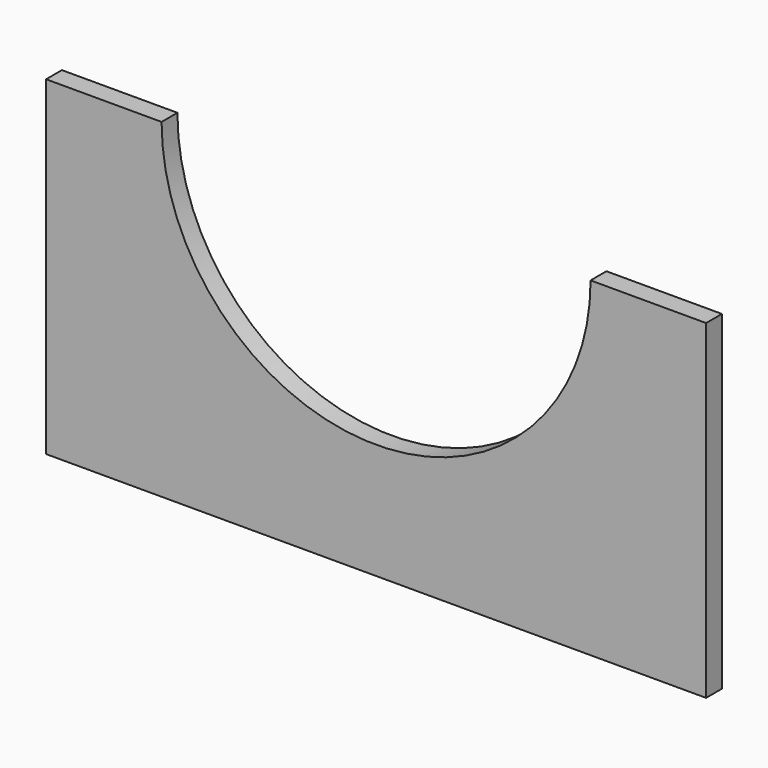
from build123d import *

# Parameters (mm, degrees)
PAD_DEPTH = 6


with BuildPart() as part:
    # Sketch → Pad (new body)
    with BuildSketch(Plane.XZ):
        with BuildLine():
            Line((0, 0), (200, 0))
            Line((200, 0), (200, 100))
            Line((200, 100), (165, 100))
            ThreePointArc((35, 100), (100, 35), (165, 100))
            Line((35, 100), (0, 100))
            Line((0, 100), (0, 0))
        make_face()
    extrude(amount=PAD_DEPTH)


solid = part.part
